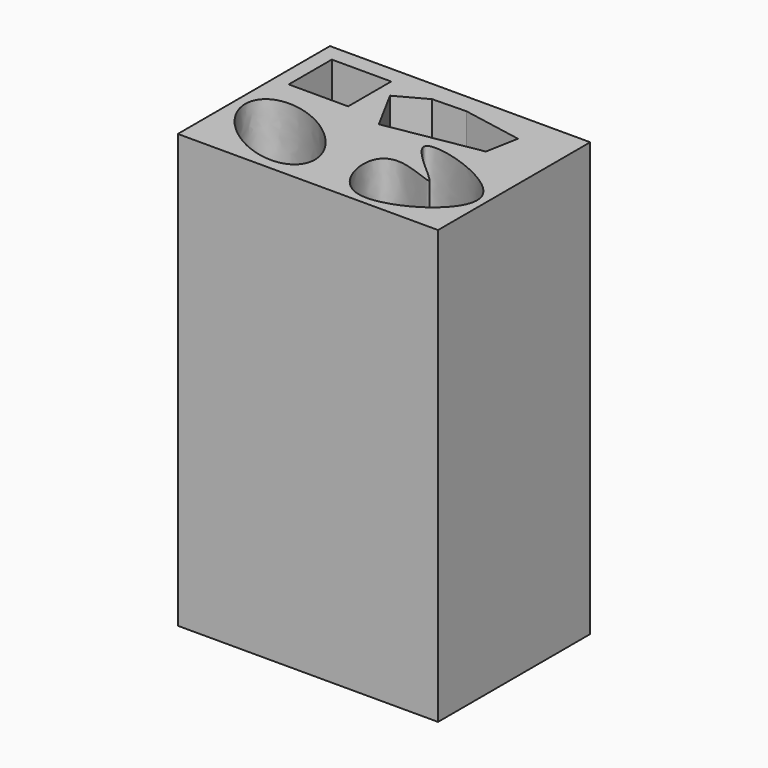
from build123d import *

# Parameters (mm, degrees)
F0_W      = 152.670443058
F0_H      = 111.579708755
F1_DEPTH  = 254
F3_DEPTH  = 228.6
F7_DEPTH  = 228.6
F9_DEPTH  = 228.6
F10_W     = 34.8646938801
F10_H     = 31.5868174657
F11_DEPTH = 228.6


with BuildPart() as f1:
    # F0 (on Top) → F1 (new body)
    with BuildSketch(Plane.XY):
        with Locations((-0.1670345664, 0.1651346684)):
            Rectangle(F0_W, F0_H)
    extrude(amount=F1_DEPTH)

    # F2 (on face) → F3 (cut)
    with BuildSketch(Plane.XY.offset(254)):
        with BuildLine():
            add(Edge.make_bspline(
                [(-13.4706040844, -43.3178059757), (5.0424473153, -15.7333580388), (-45.8490827224, -1.5826274446), (-96.7406127602, 12.5681031495), (-64.3621341222, -29.1670753815), (-31.9836554842, -70.9022539126), (-13.4706040844, -43.3178059757)],
                knots=[0, 0, 0, 2.0943951024, 2.0943951024, 4.1887902048, 4.1887902048, 6.2831853072, 6.2831853072, 6.2831853072], degree=2, weights=[1, 0.5, 1, 0.5, 1, 0.5, 1]))
        make_face()
    extrude(amount=-F3_DEPTH, mode=Mode.SUBTRACT)

    # F6 (on face) → F7 (cut)
    with BuildSketch(Plane.XY.offset(254)):
        Polygon((48.123061657, 37.9935763776), (12.6623911783, 44.549331069), (-7.0153317596, 44.0633789467), (-24.2882221937, 34.7156971693), (-10.5807371438, 9.386648424), (44.5857744618, 18.8600697838), align=None)
    extrude(amount=-F7_DEPTH, mode=Mode.SUBTRACT)

    # F8 (on face) → F9 (cut)
    with BuildSketch(Plane.XY.offset(254)):
        with BuildLine():
            add(Edge.make_bspline(
                [(42.1632863581, -19.518269226), (43.1392674258, -21.7376050728), (19.3283421945, -9.1887365291), (3.4605184767, -20.764722891), (19.8093199967, -69.5165903693), (108.8622875848, -13.7428060572), (-12.100776453, 22.3312151384), (40.9354087513, -16.7261322894), (42.1632863581, -19.518269226)],
                knots=[0, 0, 0, 0, 0.1315296257, 0.2434996435, 0.4083050733, 0.6205741686, 0.8345231405, 1, 1, 1, 1], degree=3))
        make_face()
    extrude(amount=-F9_DEPTH, mode=Mode.SUBTRACT)

    # F10 (on face) → F11 (cut)
    with BuildSketch(Plane.XY.offset(254)):
        with Locations((-50.0642582774, 30.2458670922)):
            Rectangle(F10_W, F10_H)
    extrude(amount=-F11_DEPTH, mode=Mode.SUBTRACT)


solid = f1.part
